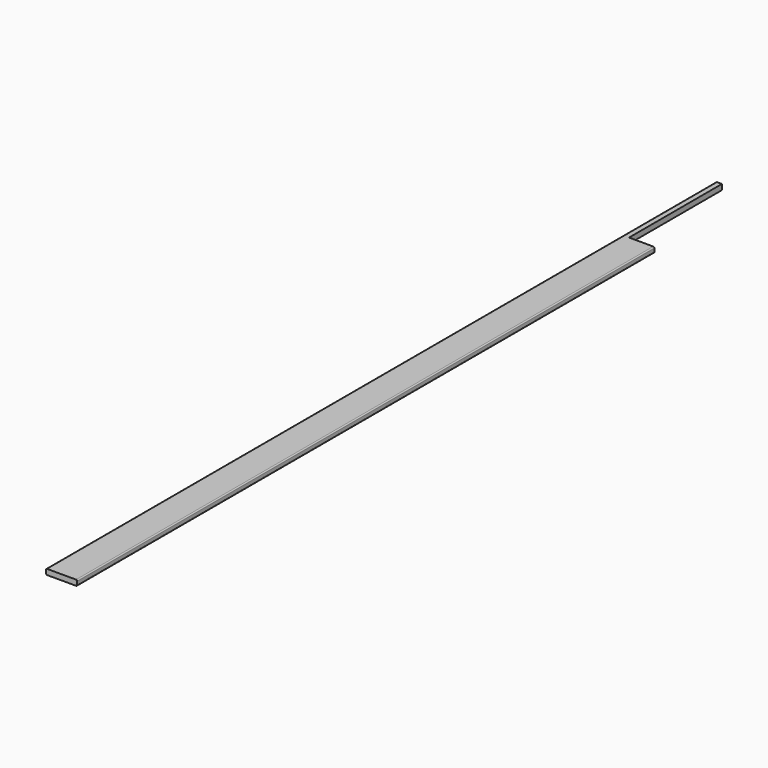
from build123d import *

# Parameters (mm, degrees)
F1_DEPTH = 1832.356
F2_W     = 110.617
F2_H     = 508
F3_DEPTH = 23.877


with BuildPart() as f1:
    # F0 (on Front) → F1 (new body, symmetric)
    with BuildSketch(Plane.XZ):
        with BuildLine():
            Line((63.246, 11.938), (-63.246, 11.938))
            ThreePointArc((-63.246, 11.938), (-66.658497, 10.524497), (-68.072, 7.112))
            Line((-68.072, 7.112), (-68.072, -7.112))
            ThreePointArc((-68.072, -7.112), (-66.658497, -10.524497), (-63.246, -11.938))
            Line((-63.246, -11.938), (63.246, -11.938))
            ThreePointArc((63.246, -11.938), (66.658497, -10.524497), (68.072, -7.112))
            Line((68.072, -7.112), (68.072, 7.112))
            ThreePointArc((68.072, 7.112), (66.658497, 10.524497), (63.246, 11.938))
        make_face()
    extrude(amount=F1_DEPTH, both=True)

    # F2 (on face) → F3 (cut, through all)
    with BuildSketch(Plane.XY.offset(11.938)):
        with Locations((12.7635, 1578.356)):
            Rectangle(F2_W, F2_H)
    extrude(amount=-F3_DEPTH, mode=Mode.SUBTRACT)


solid = f1.part
